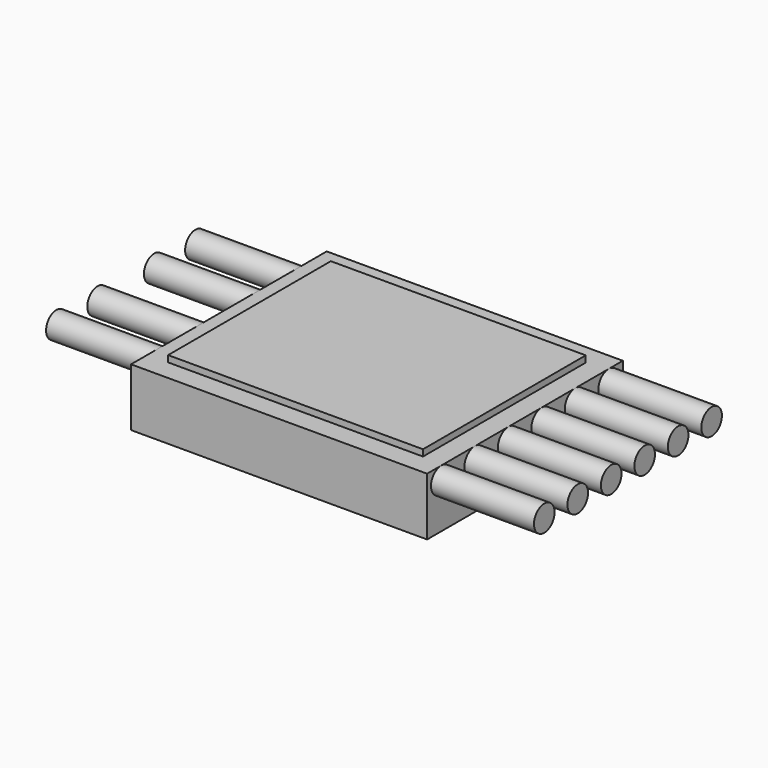
from build123d import *

# Parameters (mm, degrees)
F0_W     = 23
F0_H     = 19
F1_DEPTH = 2.5
F2_R     = 1
F3_DEPTH = 8
F4_R     = 1
F5_DEPTH = 8
F6_W     = 23
F6_H     = 19
F6_W_2   = 19.8
F6_H_2   = 15.8
F7_DEPTH = 0.5


with BuildPart() as f1:
    # F0 (on Top) → F1 (new body, symmetric)
    with BuildSketch(Plane.XY):
        Rectangle(F0_W, F0_H)
    extrude(amount=F1_DEPTH, both=True)

    # F2 (on face) → F3 (join)
    with BuildSketch(Plane.YZ.offset(11.5)):
        with Locations((-8.125, 1)):
            Circle(F2_R)
        with Locations((-4.875, 1)):
            Circle(F2_R)
        with Locations((-1.625, 1)):
            Circle(F2_R)
        with Locations((1.625, 1)):
            Circle(F2_R)
        with Locations((4.875, 1)):
            Circle(F2_R)
        with Locations((8.125, 1)):
            Circle(F2_R)
    extrude(amount=F3_DEPTH)

    # F4 (on face) → F5 (join)
    with BuildSketch(Plane(origin=(-11.5, 0, 0), x_dir=(0, -1, 0), z_dir=(-1, 0, 0))):
        with Locations((-6.75, 1)):
            Circle(F4_R)
        with Locations((-2.75, 1)):
            Circle(F4_R)
        with Locations((2.75, 1)):
            Circle(F4_R)
        with Locations((6.75, 1)):
            Circle(F4_R)
    extrude(amount=F5_DEPTH)

    # F6 (on face) → F7 (cut)
    with BuildSketch(Plane.XY.offset(2.5)):
        Rectangle(F6_W, F6_H)
        Rectangle(F6_W_2, F6_H_2, mode=Mode.SUBTRACT)
    extrude(amount=-F7_DEPTH, mode=Mode.SUBTRACT)


solid = f1.part
